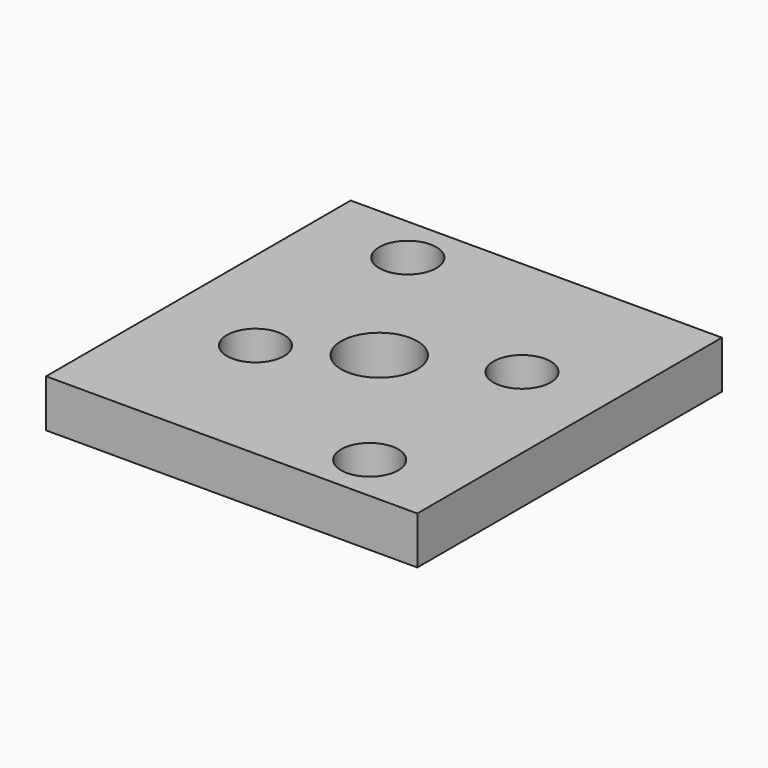
from build123d import *

# Parameters (mm, degrees)
SKETCH_W      = 39
SKETCH_H      = 40
PAD_DEPTH     = 5
SKETCH001_R   = 3
SKETCH001_R_2 = 4
POCKET_DEPTH  = 5.001


with BuildPart() as part:
    # Sketch → Pad (new body)
    with BuildSketch(Plane.XY):
        with Locations((19.5, 20)):
            Rectangle(SKETCH_W, SKETCH_H)
    extrude(amount=PAD_DEPTH)

    # Sketch001 (on Face6 of Pad) → Pocket (cut, through all)
    with BuildSketch(Plane.XY.offset(5)):
        with Locations((10, 35)):
            Circle(SKETCH001_R)
        with Locations((30, 25)):
            Circle(SKETCH001_R)
        with Locations((10, 15)):
            Circle(SKETCH001_R)
        with Locations((30, 5)):
            Circle(SKETCH001_R)
        with Locations((19, 20)):
            Circle(SKETCH001_R_2)
    extrude(amount=-POCKET_DEPTH, mode=Mode.SUBTRACT)


solid = part.part
